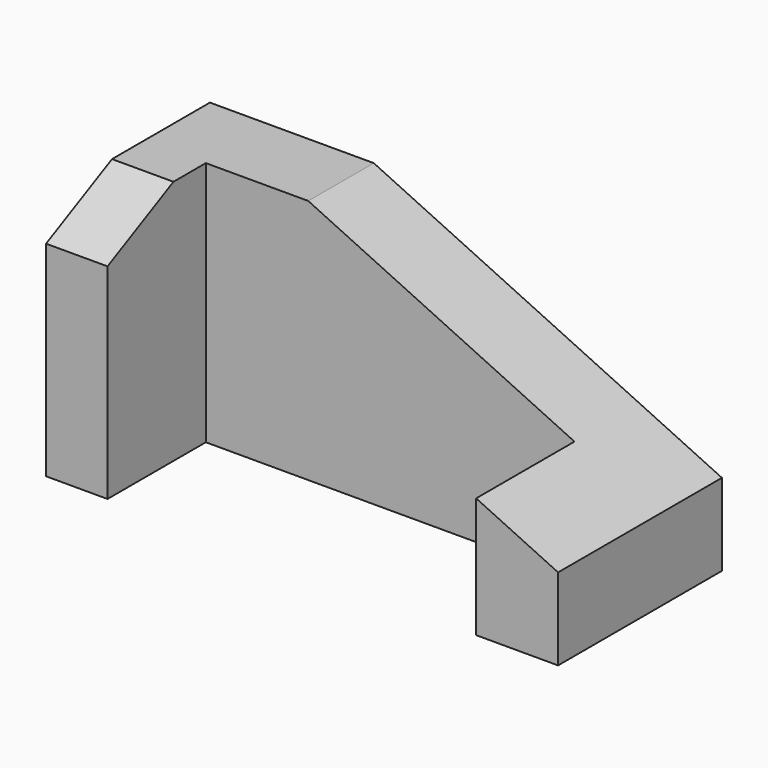
from build123d import *

# Parameters (mm, degrees)
F2_DEPTH = 50
F3_DEPTH = 30
F4_DEPTH = 50
F1_W     = 15
F1_H     = 60
F5_DEPTH = 50
F7_DEPTH = 15


with BuildPart() as f2:
    # F1 (on Front) → F2 (new body)
    with BuildSketch(Plane.XZ):
        Polygon((-65.4444598283, 60), (-65.4444598283, 0), (24.5555401717, 0), (24.5555401717, 29.4117647059), (-40.4444598283, 60), align=None)
    extrude(amount=-F2_DEPTH)

    # F3 (cut): a face of the model
    f3_faces = [f2.faces().sort_by_distance(p)[0] for p in [
        (-25.7092573361, 0, 25.5315584178),
    ]]
    extrude(f3_faces, amount=-F3_DEPTH, mode=Mode.SUBTRACT)

    # F1 (on Front) → F4 (join)
    with BuildSketch(Plane.XZ):
        Polygon((24.5555401717, 29.4117647059), (24.5555401717, 0), (44.5555401717, 0), (44.5555401717, 20), align=None)
    extrude(amount=-F4_DEPTH)

    # F1 (on Front) → F5 (join)
    with BuildSketch(Plane.XZ):
        with Locations((-72.9444598283, 30)):
            Rectangle(F1_W, F1_H)
    extrude(amount=-F5_DEPTH)

    # F6 (on face) → F7 (cut)
    with BuildSketch(Plane(origin=(-80.4444598283, 0, 0), x_dir=(0, -1, 0), z_dir=(-1, 0, 0))):
        Polygon((-20.1208200306, 60), (0, 50), (0, 60), align=None)
    extrude(amount=-F7_DEPTH, mode=Mode.SUBTRACT)


solid = f2.part
